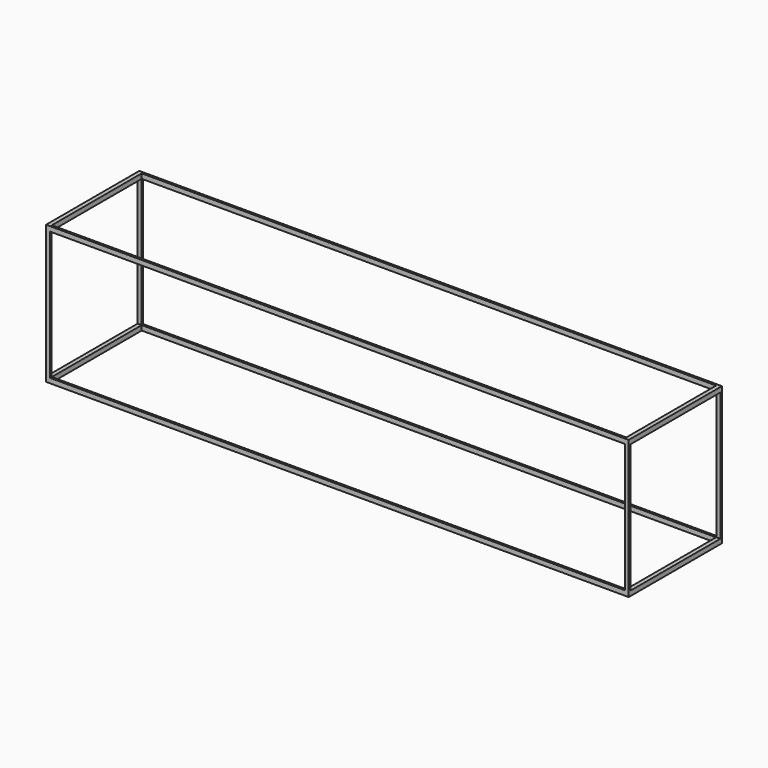
from build123d import *

# Parameters (mm, degrees)
F4_W     = 12192
F4_H     = 2438
F4_W_2   = 12020
F4_H_2   = 2350
F0_DEPTH = 2896
F1_W     = 12030
F1_H     = 2695
F5_DEPTH = 2438.001
F2_W     = 2352
F2_H     = 2695
F3_DEPTH = 12192.001


with BuildPart() as f0:
    # F4 (on Top) → F0 (new body)
    with BuildSketch(Plane.XY):
        Rectangle(F4_W, F4_H)
        Rectangle(F4_W_2, F4_H_2, mode=Mode.SUBTRACT)
    extrude(amount=F0_DEPTH)

    # F1 (on face) → F5 (cut, through all)
    with BuildSketch(Plane.XZ.offset(1219)):
        with Locations((0, 1448)):
            Rectangle(F1_W, F1_H)
    extrude(amount=-F5_DEPTH, mode=Mode.SUBTRACT)

    # F2 (on face) → F3 (cut, through all)
    with BuildSketch(Plane(origin=(-6096, 0, 0), x_dir=(0, -1, 0), z_dir=(-1, 0, 0))):
        with Locations((0, 1448)):
            Rectangle(F2_W, F2_H)
    extrude(amount=-F3_DEPTH, mode=Mode.SUBTRACT)


solid = f0.part
